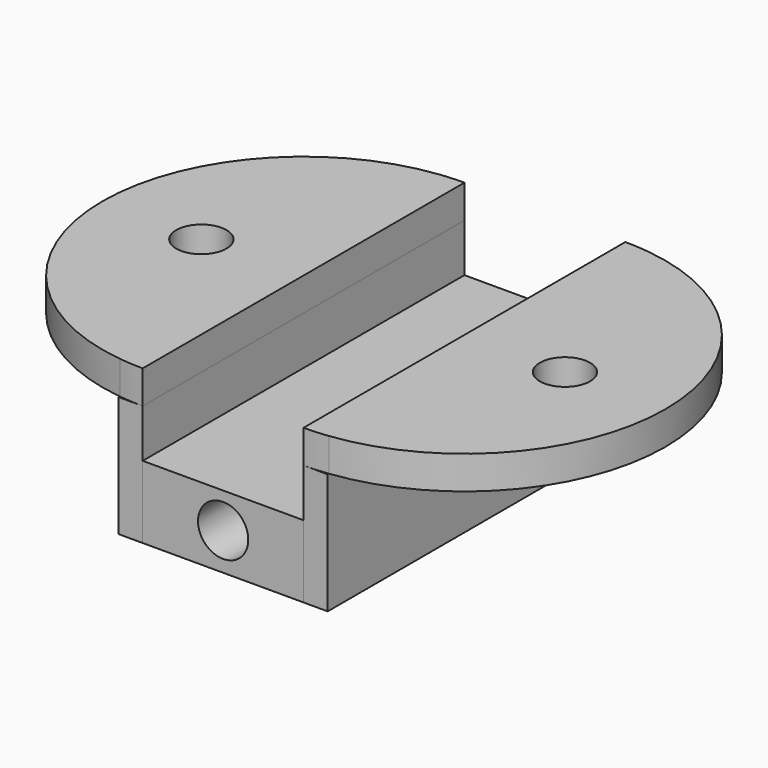
from build123d import *

# Parameters (mm, degrees)
F0_W     = 10.16
F0_H     = 25.4
F2_DEPTH = 4.572
F3_DEPTH = 7.62
F0_W_2   = 1.524
F4_R     = 1.5875
F6_DEPTH = 2.0955
F5_R     = 1.5875
F7_DEPTH = 2.0955
F8_R     = 1.5875
F9_DEPTH = 25.4


with BuildPart() as f2:
    # F0 (on Top) → F2 (new body)
    with BuildSketch(Plane.XY):
        with Locations((-43.2146790205, 20.8031578178)):
            Rectangle(F0_W, F0_H)
    extrude(amount=F2_DEPTH)

    # F8 (on face) → F9 (cut)
    with BuildSketch(Plane(origin=(0, 33.5031578178, 0), x_dir=(-1, 0, 0), z_dir=(0, 1, 0))):
        with Locations((43.2146790205, 2.3540838305)):
            Circle(F8_R)
    extrude(amount=-F9_DEPTH, mode=Mode.SUBTRACT)


with BuildPart() as f3:
    # F0 (on Top) → F3 (new body)
    with BuildSketch(Plane.XY):
        Polygon((-36.6106790205, 33.5031578178), (-38.1346790205, 33.5031578178), (-38.1346790205, 8.1031578178), (-38.0330790205, 8.1031578178), (-36.6106790205, 8.1031578178), align=None)
    extrude(amount=F3_DEPTH)


with BuildPart() as f3b:
    # F0 (on Top) → F3, piece 2 (new body)
    with BuildSketch(Plane.XY):
        with Locations((-49.0566790205, 20.8031578178)):
            Rectangle(F0_W_2, F0_H)
    extrude(amount=F3_DEPTH)


with BuildPart() as f6:
    # F4 (on face) → F6 (new body)
    with BuildSketch(Plane.XY.offset(7.62)):
        with BuildLine():
            Line((-48.2946790205, 8.1031578178), (-48.2946790205, 33.5031578178))
            ThreePointArc((-48.2946790205, 33.5031578178), (-49.0580593356, 33.4801941629), (-49.8186790205, 33.4113862422))
            Line((-49.8186790205, 33.4113862422), (-49.8186790205, 8.1949293935))
            ThreePointArc((-49.8186790205, 8.1949293935), (-49.0580593356, 8.1261214728), (-48.2946790205, 8.1031578178))
        make_face()
        with BuildLine():
            Line((-49.8186790205, 8.1949293935), (-49.8186790205, 33.4113862422))
            ThreePointArc((-49.8186790205, 33.4113862422), (-60.9946790205, 20.8031578178), (-49.8186790205, 8.1949293935))
        make_face()
        with Locations((-54.6432473904, 20.6683258789)):
            Circle(F4_R, mode=Mode.SUBTRACT)
    extrude(amount=F6_DEPTH)


with BuildPart() as f7:
    # F5 (on face) → F7 (new body)
    with BuildSketch(Plane.XY.offset(7.62)):
        with BuildLine():
            Line((-38.1346790205, 33.5031578178), (-38.1346790205, 8.1031578178))
            ThreePointArc((-38.1346790205, 8.1031578178), (-37.3712987053, 8.1261214728), (-36.6106790205, 8.1949293935))
            Line((-36.6106790205, 8.1949293935), (-36.6106790205, 33.4113862422))
            ThreePointArc((-36.6106790205, 33.4113862422), (-37.3712987053, 33.4801941629), (-38.1346790205, 33.5031578178))
        make_face()
        with BuildLine():
            Line((-36.6106790205, 33.4113862422), (-36.6106790205, 8.1949293935))
            ThreePointArc((-36.6106790205, 8.1949293935), (-25.4346790205, 20.8031578178), (-36.6106790205, 33.4113862422))
        make_face()
        with Locations((-31.7846790205, 20.8031578178)):
            Circle(F5_R, mode=Mode.SUBTRACT)
    extrude(amount=F7_DEPTH)


solid = Compound([f2.part, f3.part, f3b.part, f6.part, f7.part])
